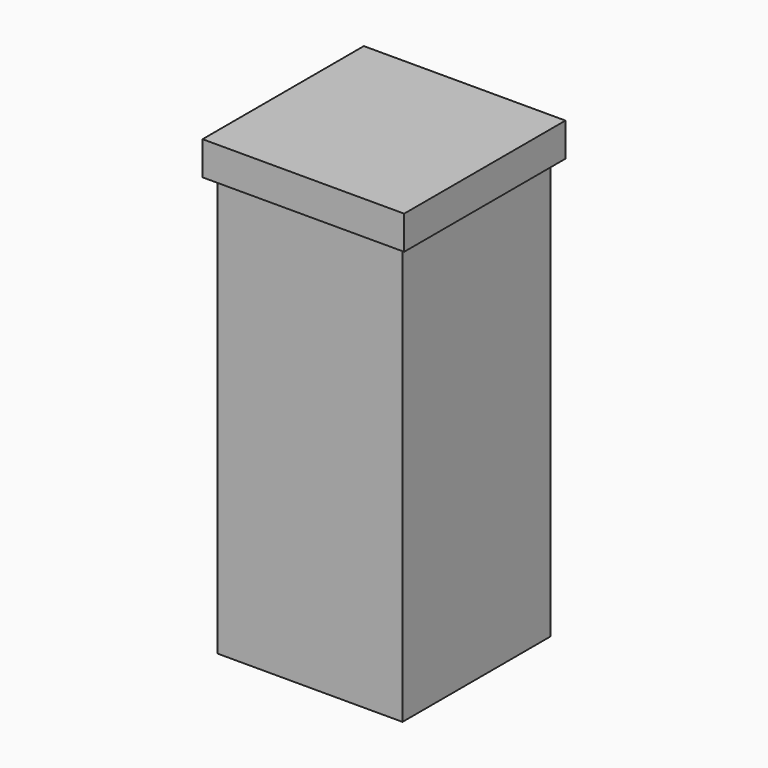
from build123d import *

# Parameters (mm, degrees)
F0_W     = 44
F0_H     = 44
F1_DEPTH = 100
F2_W     = 44
F2_H     = 44
F3_DEPTH = 8


with BuildPart() as f1:
    # F0 (on Top) → F1 (new body)
    with BuildSketch(Plane.XY):
        with Locations((22, 22)):
            Rectangle(F0_W, F0_H)
    extrude(amount=F1_DEPTH)

    # F2 (on face) → F3 (join)
    with BuildSketch(Plane.XY.offset(100)):
        Polygon((-2, -2), (0, -2), (46, -2), (46, 46), (-2, 46), align=None)
        with Locations((22, 22)):
            Rectangle(F2_W, F2_H, mode=Mode.SUBTRACT)
        with Locations((22, 22)):
            Rectangle(F2_W, F2_H)
    extrude(amount=F3_DEPTH)


solid = f1.part
